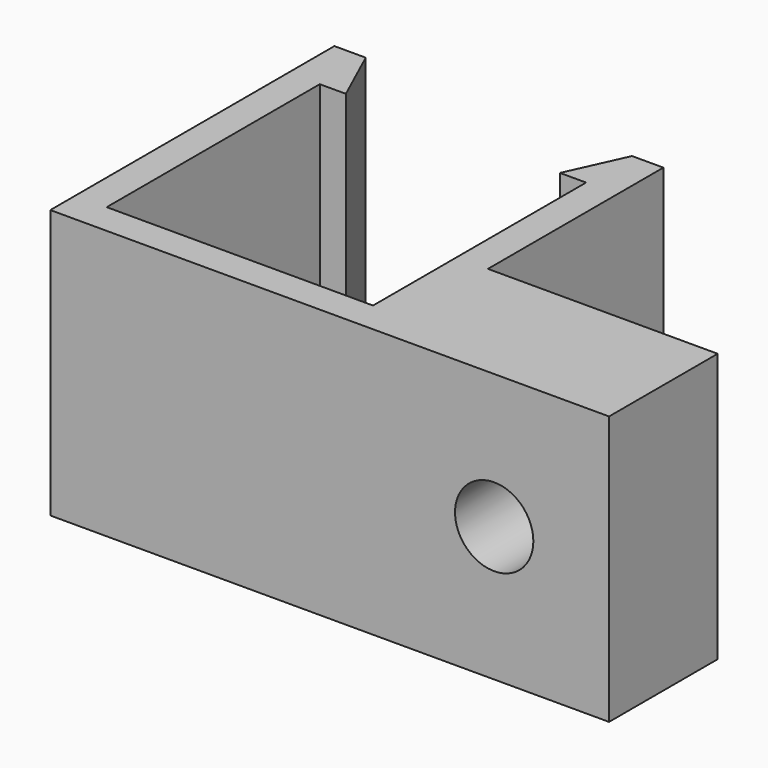
from build123d import *

# Parameters (mm, degrees)
F1_DEPTH = 10.3
F3_D     = 3


with BuildPart() as f1:
    # F0 (on Top) → F1 (new body)
    with BuildSketch(Plane.XY):
        Polygon((10.2, 0), (0, 0), (0, 10.2), (1, 10.2), (0, 12.4), (-1.2, 12.4), (-1.2, -1.2), (11.4, -1.2), (20.2, -1.2), (20.2, 4), (11.4, 4), (11.4, 12.4), (10.2, 12.4), (9.2, 10.2), (10.2, 10.2), align=None)
    extrude(amount=F1_DEPTH)

    # F3 (through all)
    with Locations(Plane(origin=(0, 4, 0), x_dir=(-1, 0, 0), z_dir=(0, 1, 0))):
        with Locations((-15.8, 5.15)):
            Hole(F3_D / 2)


solid = f1.part
